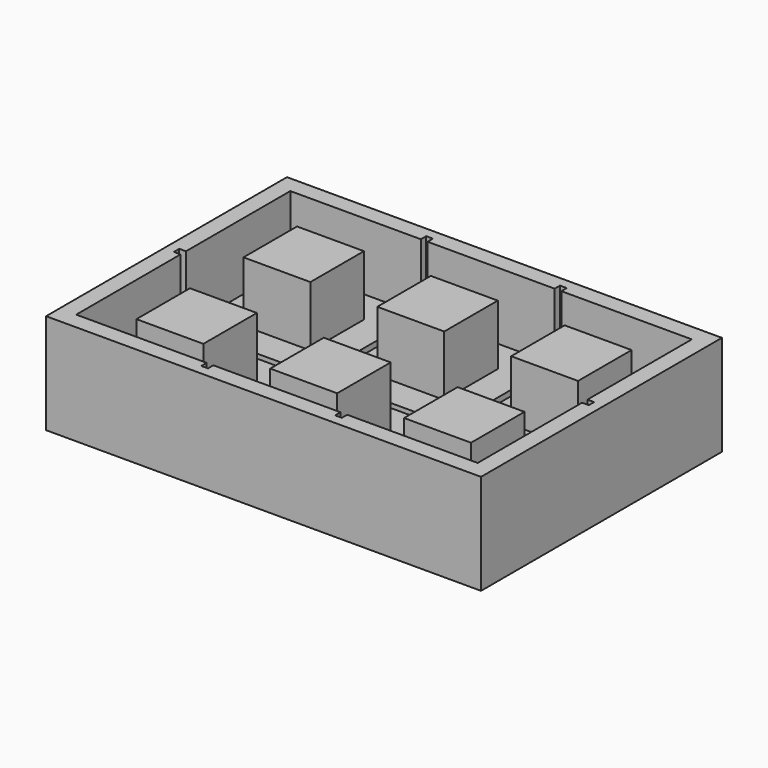
from build123d import *

# Parameters (mm, degrees)
F0_W      = 65
F0_H      = 45
F1_DEPTH  = 5
F2_W      = 65
F2_H      = 45
F2_W_2    = 60
F2_H_2    = 40
F3_DEPTH  = 10
F4_W      = 19.5
F4_H      = 1
F4_W_2    = 1
F4_H_2    = 19.5
F4_W_3    = 19
F5_DEPTH  = 1
F7_DEPTH  = 1
F11_DEPTH = 1
F9_W      = 1
F9_H      = 11
F12_DEPTH = 1
F8_W      = 1
F8_H      = 11
F13_DEPTH = 1
F14_W     = 10
F14_H     = 10
F15_DEPTH = 9


with BuildPart() as f1:
    # F0 (on Top) → F1 (new body)
    with BuildSketch(Plane.XY):
        Rectangle(F0_W, F0_H)
    extrude(amount=F1_DEPTH)

    # F2 (on face) → F3 (join)
    with BuildSketch(Plane.XY.offset(5)):
        Rectangle(F2_W, F2_H)
        Rectangle(F2_W_2, F2_H_2, mode=Mode.SUBTRACT)
    extrude(amount=F3_DEPTH)

    # F4 (on face) → F5 (cut)
    with BuildSketch(Plane.XY.offset(5)):
        with Locations((-20.25, 0)):
            Rectangle(F4_W, F4_H)
        with Locations((-10, 0)):
            Rectangle(F4_W_2, F4_H)
        with Locations((-10, 10.25)):
            Rectangle(F4_W_2, F4_H_2)
        with Locations((-10, -10.25)):
            Rectangle(F4_W_2, F4_H_2)
        Rectangle(F4_W_3, F4_H)
        with Locations((10, 10.25)):
            Rectangle(F4_W_2, F4_H_2)
        with Locations((10, -10.25)):
            Rectangle(F4_W_2, F4_H_2)
        with Locations((20.25, 0)):
            Rectangle(F4_W, F4_H)
        with Locations((10, 0)):
            Rectangle(F4_W_2, F4_H)
    extrude(amount=-F5_DEPTH, mode=Mode.SUBTRACT)

    # F6 (on face) → F7 (cut)
    with BuildSketch(Plane.XZ.offset(-20)):
        Polygon((-10.5, 5), (-10.5, 4), (-9.5, 4), (-9.5, 5), (-9.5, 15), (-10.5, 15), align=None)
        Polygon((9.5, 15), (9.5, 5), (9.5, 4), (10.5, 4), (10.5, 5), (10.5, 15), align=None)
    extrude(amount=-F7_DEPTH, mode=Mode.SUBTRACT)

    # F10 (on face) → F11 (cut)
    with BuildSketch(Plane.YZ.offset(-30)):
        Polygon((-0.5, 5), (-0.5, 4), (0.5, 4), (0.5, 5), (0.5, 15), (-0.5, 15), align=None)
    extrude(amount=-F11_DEPTH, mode=Mode.SUBTRACT)

    # F9 (on face) → F12 (cut)
    with BuildSketch(Plane(origin=(0, -20, 0), x_dir=(-1, 0, 0), z_dir=(0, 1, 0))):
        with Locations((-10, 9.5)):
            Rectangle(F9_W, F9_H)
        with Locations((10, 9.5)):
            Rectangle(F9_W, F9_H)
    extrude(amount=-F12_DEPTH, mode=Mode.SUBTRACT)

    # F8 (on face) → F13 (cut)
    with BuildSketch(Plane(origin=(30, 0, 0), x_dir=(0, -1, 0), z_dir=(-1, 0, 0))):
        with Locations((0, 9.5)):
            Rectangle(F8_W, F8_H)
    extrude(amount=-F13_DEPTH, mode=Mode.SUBTRACT)

    # F14 (on face) → F15 (join)
    with BuildSketch(Plane.XY.offset(5)):
        with Locations((-20, 10)):
            Rectangle(F14_W, F14_H)
        with Locations((0, 10)):
            Rectangle(F14_W, F14_H)
        with Locations((20, 10)):
            Rectangle(F14_W, F14_H)
        with Locations((20, -10)):
            Rectangle(F14_W, F14_H)
        with Locations((0, -10)):
            Rectangle(F14_W, F14_H)
        with Locations((-20, -10)):
            Rectangle(F14_W, F14_H)
    extrude(amount=F15_DEPTH)


solid = f1.part
